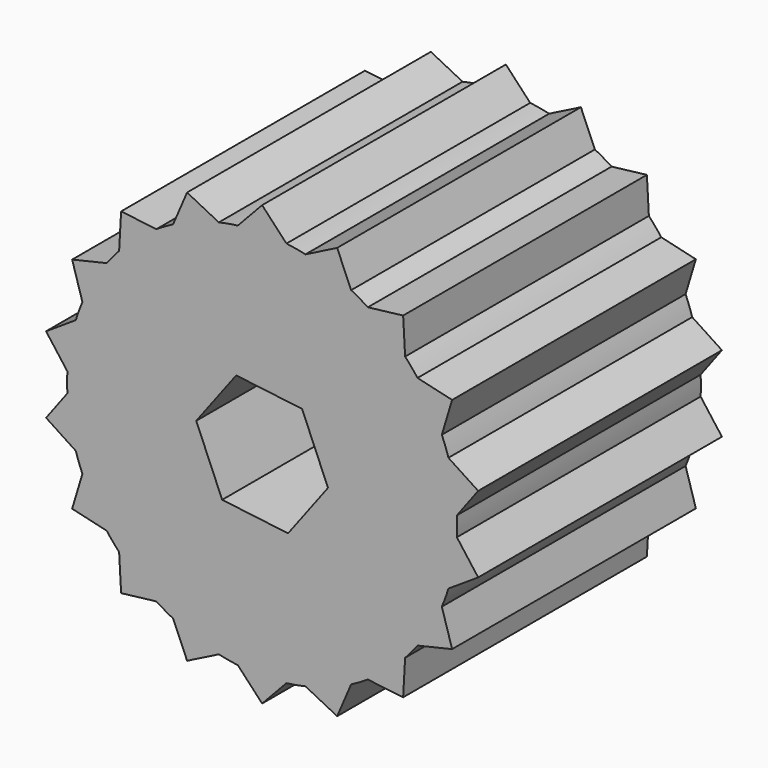
from build123d import *

# Parameters (mm, degrees)
F1_DEPTH = 25


with BuildPart() as f1:
    # F0 (on Front) → F1 (new body)
    with BuildSketch(Plane.XZ):
        with BuildLine():
            ThreePointArc((1.99609, 15.875), (0, 16), (-1.99609, 15.875))
            ThreePointArc((-1.99609, 15.875), (-2.778371, 15.756924), (-3.553859, 15.600323))
            ThreePointArc((-3.553859, 15.600323), (-5.472322, 15.035082), (-7.305281, 14.234917))
            ThreePointArc((-7.305281, 14.234917), (-8, 13.856406), (-8.67516, 13.444017))
            ThreePointArc((-8.67516, 13.444017), (-10.284602, 12.256711), (-11.733347, 10.877894))
            ThreePointArc((-11.733347, 10.877894), (-12.256711, 10.284602), (-12.750108, 9.666165))
            ThreePointArc((-12.750108, 9.666165), (-13.856406, 8), (-14.746198, 6.208835))
            ThreePointArc((-14.746198, 6.208835), (-15.035082, 5.472322), (-15.287206, 4.72243))
            ThreePointArc((-15.287206, 4.72243), (-15.756924, 2.778371), (-15.98044, 0.7909))
            ThreePointArc((-15.98044, 0.7909), (-16, 0), (-15.98044, -0.7909))
            ThreePointArc((-15.98044, -0.7909), (-15.756924, -2.778371), (-15.287206, -4.72243))
            ThreePointArc((-15.287206, -4.72243), (-15.035082, -5.472322), (-14.746198, -6.208835))
            ThreePointArc((-14.746198, -6.208835), (-13.856406, -8), (-12.750108, -9.666165))
            ThreePointArc((-12.750108, -9.666165), (-12.256711, -10.284602), (-11.733347, -10.877894))
            ThreePointArc((-11.733347, -10.877894), (-10.284602, -12.256711), (-8.67516, -13.444017))
            ThreePointArc((-8.67516, -13.444017), (-8, -13.856406), (-7.305281, -14.234917))
            ThreePointArc((-7.305281, -14.234917), (-5.472322, -15.035082), (-3.553859, -15.600323))
            ThreePointArc((-3.553859, -15.600323), (-2.778371, -15.756924), (-1.99609, -15.875))
            ThreePointArc((-1.99609, -15.875), (-1, -15.968719), (0, -16))
            ThreePointArc((0, -16), (1, -15.968719), (1.99609, -15.875))
            ThreePointArc((1.99609, -15.875), (2.778371, -15.756924), (3.553859, -15.600323))
            ThreePointArc((3.553859, -15.600323), (5.472322, -15.035082), (7.305281, -14.234917))
            ThreePointArc((7.305281, -14.234917), (8, -13.856406), (8.67516, -13.444017))
            ThreePointArc((8.67516, -13.444017), (10.284602, -12.256711), (11.733347, -10.877894))
            ThreePointArc((11.733347, -10.877894), (12.256711, -10.284602), (12.750108, -9.666165))
            ThreePointArc((12.750108, -9.666165), (13.856406, -8), (14.746198, -6.208835))
            ThreePointArc((14.746198, -6.208835), (15.035082, -5.472322), (15.287206, -4.72243))
            ThreePointArc((15.287206, -4.72243), (15.756924, -2.778371), (15.98044, -0.7909))
            ThreePointArc((15.98044, -0.7909), (16, 0), (15.98044, 0.7909))
            ThreePointArc((15.98044, 0.7909), (15.756924, 2.778371), (15.287206, 4.72243))
            ThreePointArc((15.287206, 4.72243), (15.035082, 5.472322), (14.746198, 6.208835))
            ThreePointArc((14.746198, 6.208835), (13.856406, 8), (12.750108, 9.666165))
            ThreePointArc((12.750108, 9.666165), (12.256711, 10.284602), (11.733347, 10.877894))
            ThreePointArc((11.733347, 10.877894), (10.284602, 12.256711), (8.67516, 13.444017))
            ThreePointArc((8.67516, 13.444017), (8, 13.856406), (7.305281, 14.234917))
            ThreePointArc((7.305281, 14.234917), (5.472322, 15.035082), (3.553859, 15.600323))
            ThreePointArc((3.553859, 15.600323), (2.778371, 15.756924), (1.99609, 15.875))
        make_face()
        Polygon((-2.12708, 5.013831), (3.278565, 4.349021), (5.405645, -0.66481), (2.12708, -5.013831), (-3.278565, -4.349021), (-5.405645, 0.66481), align=None, mode=Mode.SUBTRACT)
        with BuildLine():
            Line((6.156363, 16.914467), (3.553859, 15.600323))
            ThreePointArc((3.553859, 15.600323), (5.472322, 15.035082), (7.305281, 14.234917))
            Line((7.305281, 14.234917), (6.156363, 16.914467))
        make_face()
        with BuildLine():
            Line((0, 18), (-1.99609, 15.875))
            ThreePointArc((-1.99609, 15.875), (0, 16), (1.99609, 15.875))
            Line((1.99609, 15.875), (0, 18))
        make_face()
        with BuildLine():
            ThreePointArc((-7.305281, 14.234917), (-5.472322, 15.035082), (-3.553859, 15.600323))
            Line((-3.553859, 15.600323), (-6.156363, 16.914467))
            Line((-6.156363, 16.914467), (-7.305281, 14.234917))
        make_face()
        with BuildLine():
            ThreePointArc((-11.733347, 10.877894), (-10.284602, 12.256711), (-8.67516, 13.444017))
            Line((-8.67516, 13.444017), (-11.570177, 13.7888))
            Line((-11.570177, 13.7888), (-11.733347, 10.877894))
        make_face()
        with BuildLine():
            ThreePointArc((-14.746198, 6.208835), (-13.856406, 8), (-12.750108, 9.666165))
            Line((-12.750108, 9.666165), (-15.588457, 9))
            Line((-15.588457, 9), (-14.746198, 6.208835))
        make_face()
        with BuildLine():
            ThreePointArc((-15.98044, 0.7909), (-15.756924, 2.778371), (-15.287206, 4.72243))
            Line((-15.287206, 4.72243), (-17.72654, 3.125667))
            Line((-17.72654, 3.125667), (-15.98044, 0.7909))
        make_face()
        with BuildLine():
            ThreePointArc((-15.287206, -4.72243), (-15.756924, -2.778371), (-15.98044, -0.7909))
            Line((-15.98044, -0.7909), (-17.72654, -3.125667))
            Line((-17.72654, -3.125667), (-15.287206, -4.72243))
        make_face()
        with BuildLine():
            ThreePointArc((-12.750108, -9.666165), (-13.856406, -8), (-14.746198, -6.208835))
            Line((-14.746198, -6.208835), (-15.588457, -9))
            Line((-15.588457, -9), (-12.750108, -9.666165))
        make_face()
        with BuildLine():
            ThreePointArc((-8.67516, -13.444017), (-10.284602, -12.256711), (-11.733347, -10.877894))
            Line((-11.733347, -10.877894), (-11.570177, -13.7888))
            Line((-11.570177, -13.7888), (-8.67516, -13.444017))
        make_face()
        with BuildLine():
            ThreePointArc((-3.553859, -15.600323), (-5.472322, -15.035082), (-7.305281, -14.234917))
            Line((-7.305281, -14.234917), (-6.156363, -16.914467))
            Line((-6.156363, -16.914467), (-3.553859, -15.600323))
        make_face()
        with BuildLine():
            ThreePointArc((0, -16), (-1, -15.968719), (-1.99609, -15.875))
            Line((-1.99609, -15.875), (0, -18))
            Line((0, -18), (1.99609, -15.875))
            ThreePointArc((1.99609, -15.875), (1, -15.968719), (0, -16))
        make_face()
        with BuildLine():
            Line((6.156363, -16.914467), (7.305281, -14.234917))
            ThreePointArc((7.305281, -14.234917), (5.472322, -15.035082), (3.553859, -15.600323))
            Line((3.553859, -15.600323), (6.156363, -16.914467))
        make_face()
        with BuildLine():
            Line((15.588457, -9), (14.746198, -6.208835))
            ThreePointArc((14.746198, -6.208835), (13.856406, -8), (12.750108, -9.666165))
            Line((12.750108, -9.666165), (15.588457, -9))
        make_face()
        with BuildLine():
            Line((17.72654, -3.125667), (15.98044, -0.7909))
            ThreePointArc((15.98044, -0.7909), (15.756924, -2.778371), (15.287206, -4.72243))
            Line((15.287206, -4.72243), (17.72654, -3.125667))
        make_face()
        with BuildLine():
            Line((17.72654, 3.125667), (15.287206, 4.72243))
            ThreePointArc((15.287206, 4.72243), (15.756924, 2.778371), (15.98044, 0.7909))
            Line((15.98044, 0.7909), (17.72654, 3.125667))
        make_face()
        with BuildLine():
            Line((15.588457, 9), (12.750108, 9.666165))
            ThreePointArc((12.750108, 9.666165), (13.856406, 8), (14.746198, 6.208835))
            Line((14.746198, 6.208835), (15.588457, 9))
        make_face()
        with BuildLine():
            Line((11.570177, 13.7888), (8.67516, 13.444017))
            ThreePointArc((8.67516, 13.444017), (10.284602, 12.256711), (11.733347, 10.877894))
            Line((11.733347, 10.877894), (11.570177, 13.7888))
        make_face()
        with BuildLine():
            Line((11.570177, -13.7888), (11.733347, -10.877894))
            ThreePointArc((11.733347, -10.877894), (10.284602, -12.256711), (8.67516, -13.444017))
            Line((8.67516, -13.444017), (11.570177, -13.7888))
        make_face()
    extrude(amount=F1_DEPTH)


solid = f1.part
